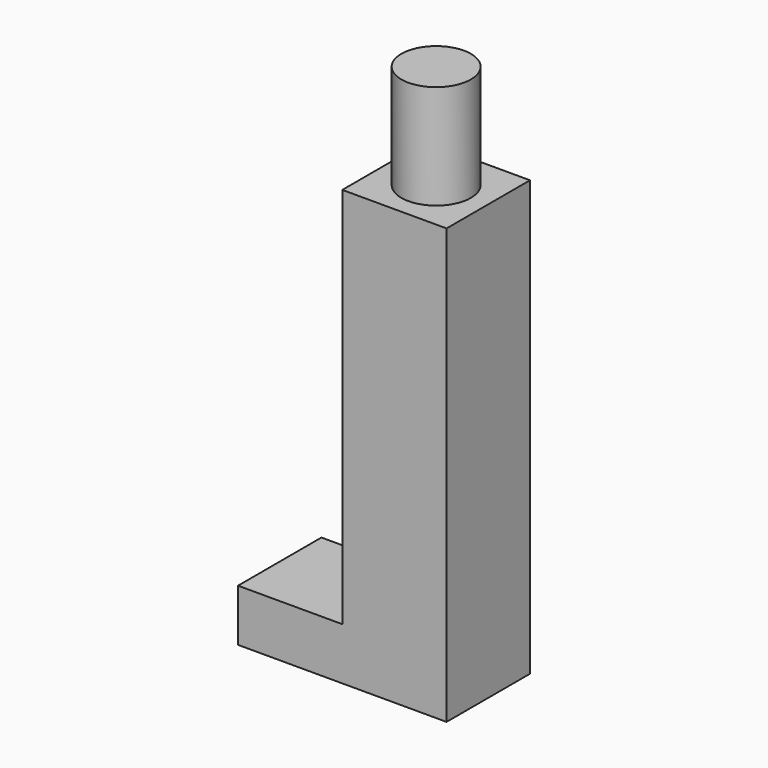
from build123d import *

# Parameters (mm, degrees)
F1_DEPTH = 6
F2_R     = 2
F3_DEPTH = 6


with BuildPart() as f1:
    # F0 (on Front) → F1 (new body)
    with BuildSketch(Plane.XZ):
        Polygon((3, 12.5), (-3, 12.5), (-3, -9.5), (-9, -9.5), (-9, -12.5), (-3, -12.5), (3, -12.5), align=None)
    extrude(amount=F1_DEPTH)

    # F2 (on face) → F3 (join)
    with BuildSketch(Plane.XY.offset(12.5)):
        with Locations((0, -3)):
            Circle(F2_R)
    extrude(amount=F3_DEPTH)


solid = f1.part
